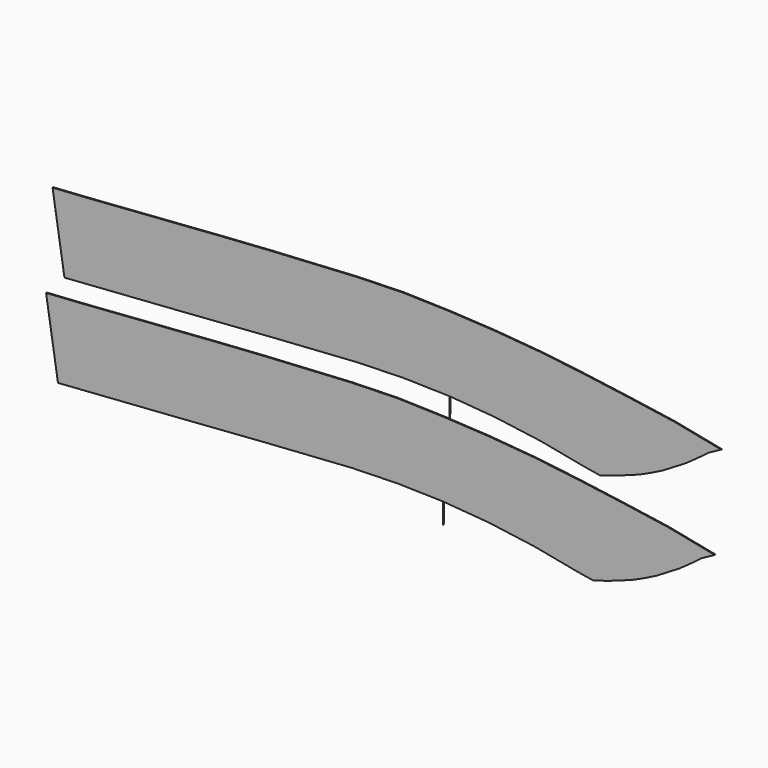
from build123d import *

# Parameters (mm, degrees)
F1_DEPTH = 6.35


with BuildPart() as f1:
    # F0 (on Front) → F1 (new body)
    with BuildSketch(Plane.XZ):
        Polygon((3328.5345076015, -169.6243198395), (3023.7345076015, -125.1743198395), (3023.7345076015, -582.3743198395), (3099.9345076015, -553.7993198395), (3176.1345076015, -518.8743198395), (3252.3345076015, -480.7743198395), (3328.5345076015, -434.7368198395), align=None)
        Polygon((3641.5261386748, -231.5156476051), (3328.5345076015, -169.6243198395), (3328.5345076015, -434.7368198395), (3404.7345076015, -388.6993198395), (3480.9345076015, -334.7243198395), (3557.1345076015, -277.5743198395), align=None)
        Polygon((2718.9345076015, -626.8243198395), (2833.2345076015, -645.8743198395), (2947.5345076015, -609.3618198395), (3023.7345076015, -582.3743198395), (3023.7345076015, -125.1743198395), (2718.9345076015, -83.8993198395), align=None)
        Polygon((2438.4, -50.8), (2438.4, -573.0875), (2718.9345076015, -626.8243198395), (2718.9345076015, -83.8993198395), align=None)
        Polygon((2133.6, -25.1618198395), (2133.6, -531.5743198395), (2438.4, -573.0875), (2438.4, -50.8), align=None)
        Polygon((1828.8, -507.2584748268), (1828.8, -646.9584748268), (1829.8972845078, -507.2584748268), (2133.6, -531.5743198395), (2133.6, -25.1618198395), (1828.8, -8.7834748268), align=None)
        Polygon((1524, 0), (1524, -500.0625), (1828.8, -507.2584748268), (1828.8, -8.7834748268), align=None)
        Polygon((1219.2, -7.9375), (1219.2, -508), (1524, -500.0625), (1524, 0), align=None)
        with BuildLine():
            Line((914.4, -25.4), (914.4, -527.05))
            add(Edge.make_bspline(
                [(914.4, -527.05), (1040.981316053, -518.4217738839), (1130.0906580265, -513.2108869419), (1219.2, -508)],
                knots=[0.8352372414, 0.8352372414, 0.8352372414, 0.8352372414, 1, 1, 1, 1], degree=3))
            Line((1219.2, -508), (1219.2, -7.9375))
            add(Edge.make_bspline(
                [(1219.2, -7.9375), (1117.6021595885, -13.8280547445), (1016.004319177, -19.718609489), (914.4, -25.4)],
                knots=[0, 0, 0, 0, 0.1666150876, 0.1666150876, 0.1666150876, 0.1666150876], degree=3))
        make_face()
        with BuildLine():
            Line((609.6, -42.8625), (609.6, -548.8309547742))
            add(Edge.make_bspline(
                [(609.6, -548.8309547742), (717.232848595, -540.9188458412), (825.1341168444, -533.134675435), (914.4, -527.05)],
                knots=[0.719045582, 0.719045582, 0.719045582, 0.719045582, 0.8352372414, 0.8352372414, 0.8352372414, 0.8352372414], degree=3))
            Line((914.4, -527.05), (914.4, -25.4))
            add(Edge.make_bspline(
                [(914.4, -25.4), (812.795680823, -31.081390511), (711.1848828804, -36.5536167886), (609.6, -42.8625)],
                knots=[0.1666150876, 0.1666150876, 0.1666150876, 0.1666150876, 0.3332301752, 0.3332301752, 0.3332301752, 0.3332301752], degree=3))
        make_face()
        with BuildLine():
            Line((304.8, -63.5), (304.8, -571.5))
            add(Edge.make_bspline(
                [(304.8, -571.5), (393.2939076138, -564.8811280252), (501.3111029102, -556.7912899431), (609.6, -548.8309547742)],
                knots=[0.602145706, 0.602145706, 0.602145706, 0.602145706, 0.719045582, 0.719045582, 0.719045582, 0.719045582], degree=3))
            Line((609.6, -548.8309547742), (609.6, -42.8625))
            add(Edge.make_bspline(
                [(609.6, -42.8625), (507.9821733379, -49.1734291701), (406.3902785492, -56.3215580145), (304.8, -63.5)],
                knots=[0.3332301752, 0.3332301752, 0.3332301752, 0.3332301752, 0.4998992958, 0.4998992958, 0.4998992958, 0.4998992958], degree=3))
        make_face()
        with BuildLine():
            Line((0, -85.725), (0, -593.725))
            add(Edge.make_bspline(
                [(0, -593.725), (94.0700025076, -587.2401521085), (180.0298127001, -580.8321440795), (304.8, -571.5)],
                knots=[0.4373251008, 0.4373251008, 0.4373251008, 0.4373251008, 0.602145706, 0.602145706, 0.602145706, 0.602145706], degree=3))
            Line((304.8, -571.5), (304.8, -63.5))
            add(Edge.make_bspline(
                [(304.8, -63.5), (203.1912096647, -70.6797500416), (101.584036158, -77.8898242728), (0, -85.725)],
                knots=[0.4998992958, 0.4998992958, 0.4998992958, 0.4998992958, 0.6665987868, 0.6665987868, 0.6665987868, 0.6665987868], degree=3))
        make_face()
        with BuildLine():
            Line((-304.8, -109.5375), (-304.8, -614.3625))
            add(Edge.make_bspline(
                [(-304.8, -614.3625), (-196.2129658223, -606.7691447414), (-94.0528641895, -600.2086664374), (0, -593.725)],
                knots=[0.2725345237, 0.2725345237, 0.2725345237, 0.2725345237, 0.4373251008, 0.4373251008, 0.4373251008, 0.4373251008], degree=3))
            Line((0, -593.725), (0, -85.725))
            add(Edge.make_bspline(
                [(0, -85.725), (-101.6039030831, -93.561708063), (-203.1846597666, -102.0237621499), (-304.8, -109.5375)],
                knots=[0.6665987868, 0.6665987868, 0.6665987868, 0.6665987868, 0.8333308794, 0.8333308794, 0.8333308794, 0.8333308794], degree=3))
        make_face()
        with BuildLine():
            Line((-609.6, -130.175), (-609.6, -636.5875))
            add(Edge.make_bspline(
                [(-609.6, -636.5875), (-528.4429168164, -630.5852312512), (-413.4068209131, -621.9572389202), (-304.8, -614.3625)],
                knots=[0.1077139184, 0.1077139184, 0.1077139184, 0.1077139184, 0.2725345237, 0.2725345237, 0.2725345237, 0.2725345237], degree=3))
            Line((-304.8, -614.3625), (-304.8, -109.5375))
            add(Edge.make_bspline(
                [(-304.8, -109.5375), (-406.3769617124, -117.0484000291), (-507.9884808562, -123.6117000146), (-609.6, -130.175)],
                knots=[0.8333308794, 0.8333308794, 0.8333308794, 0.8333308794, 1, 1, 1, 1], degree=3))
        make_face()
        with BuildLine():
            Line((-819.15, -143.5962421022), (-739.775, -646.1125))
            add(Edge.make_bspline(
                [(-739.775, -646.1125), (-701.2064762588, -643.3113078268), (-662.6379525176, -640.5101156536), (-609.6, -636.5875)],
                knots=[0, 0, 0, 0, 0.1077139184, 0.1077139184, 0.1077139184, 0.1077139184], degree=3))
            Line((-609.6, -636.5875), (-609.6, -130.175))
            Line((-609.6, -130.175), (-819.15, -143.5962421022))
        make_face()
    extrude(amount=F1_DEPTH)


with BuildPart() as f2_1:
    # F2: copy of F1
    add(f1.part.moved(Location((-43.18, 0, -632.46))))


solid = Compound([f1.part, f2_1.part])
